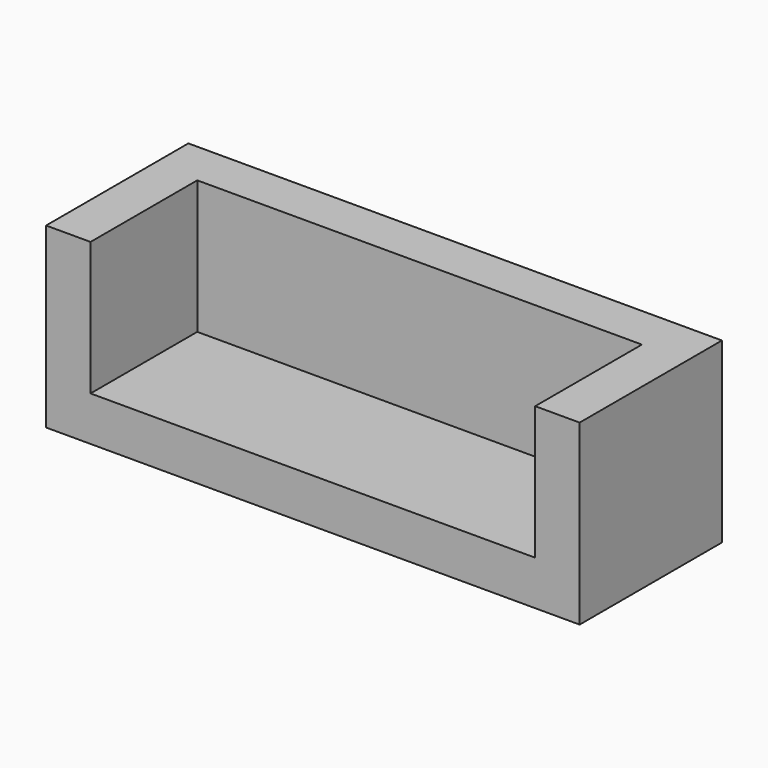
from build123d import *

# Parameters (mm, degrees)
F0_W     = 30
F0_H     = 10
F1_DEPTH = 10
F2_T     = -2.5


with BuildPart() as f1:
    # F0 (on Top) → F1 (new body)
    with BuildSketch(Plane.XY):
        Rectangle(F0_W, F0_H)
    extrude(amount=F1_DEPTH)

    # F2
    f2_openings = [f1.faces().sort_by_distance(p)[0] for p in [
        (0, 0, 10),
        (0, -5, 5),
    ]]
    offset(amount=F2_T, openings=f2_openings)


solid = f1.part
